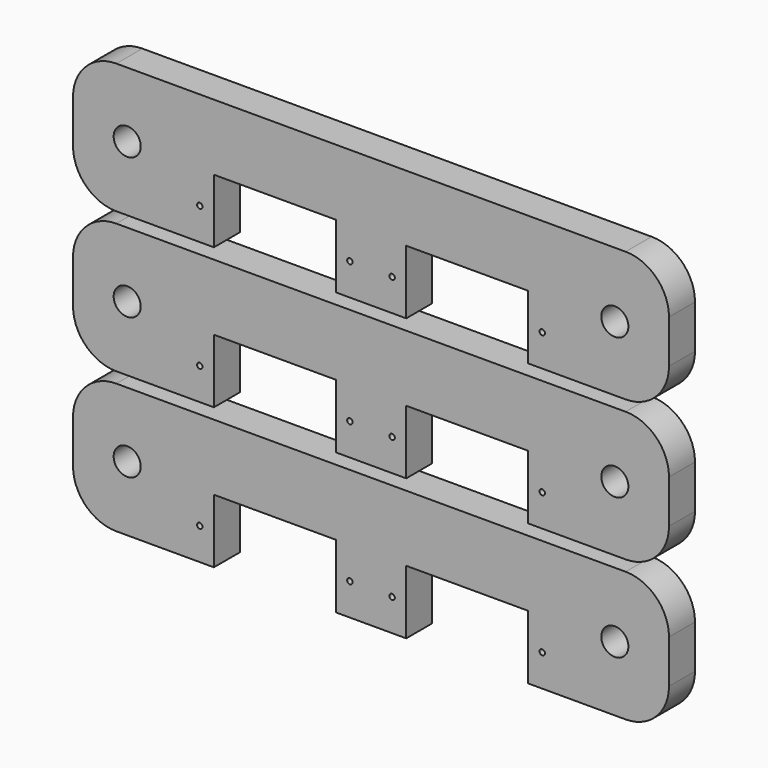
from build123d import *

# Parameters (mm, degrees)
F0_R     = 0.5
F0_R_2   = 2.5
F1_DEPTH = 6


with BuildPart() as f1:
    # F0 (on Front) → F1 (new body)
    with BuildSketch(Plane.XZ):
        with BuildLine():
            Line((47, 12), (-47, 12))
            ThreePointArc((-47, 12), (-52.656854, 9.656854), (-55, 4))
            Line((-55, 4), (-55, -4))
            ThreePointArc((-55, -4), (-52.656854, -9.656854), (-47, -12))
            Line((-47, -12), (-29, -12))
            Line((-29, -12), (-29, -0.2))
            Line((-29, -0.2), (-6.5, -0.2))
            Line((-6.5, -0.2), (-6.5, -12))
            Line((-6.5, -12), (6.5, -12))
            Line((6.5, -12), (6.5, -0.2))
            Line((6.5, -0.2), (29, -0.2))
            Line((29, -0.2), (29, -12))
            Line((29, -12), (47, -12))
            ThreePointArc((47, -12), (52.656854, -9.656854), (55, -4))
            Line((55, -4), (55, 4))
            ThreePointArc((55, 4), (52.656854, 9.656854), (47, 12))
        make_face()
        with Locations((-31.6, -6.1)):
            Circle(F0_R, mode=Mode.SUBTRACT)
        with Locations((-45, 0)):
            Circle(F0_R_2, mode=Mode.SUBTRACT)
        with Locations((-3.9, -6.1)):
            Circle(F0_R, mode=Mode.SUBTRACT)
        with Locations((3.9, -6.1)):
            Circle(F0_R, mode=Mode.SUBTRACT)
        with Locations((31.6, -6.1)):
            Circle(F0_R, mode=Mode.SUBTRACT)
        with Locations((45, 0)):
            Circle(F0_R_2, mode=Mode.SUBTRACT)
        with BuildLine():
            Line((-47, 14), (-29, 14))
            Line((-29, 14), (-29, 25.8))
            Line((-29, 25.8), (-6.5, 25.8))
            Line((-6.5, 25.8), (-6.5, 14))
            Line((-6.5, 14), (6.5, 14))
            Line((6.5, 14), (6.5, 25.8))
            Line((6.5, 25.8), (29, 25.8))
            Line((29, 25.8), (29, 14))
            Line((29, 14), (47, 14))
            ThreePointArc((47, 14), (52.656854, 16.343146), (55, 22))
            Line((55, 22), (55, 30))
            ThreePointArc((55, 30), (52.656854, 35.656854), (47, 38))
            Line((47, 38), (-47, 38))
            ThreePointArc((-47, 38), (-52.656854, 35.656854), (-55, 30))
            Line((-55, 30), (-55, 22))
            ThreePointArc((-55, 22), (-52.656854, 16.343146), (-47, 14))
        make_face()
        with Locations((-31.6, 19.9)):
            Circle(F0_R, mode=Mode.SUBTRACT)
        with Locations((-3.9, 19.9)):
            Circle(F0_R, mode=Mode.SUBTRACT)
        with Locations((3.9, 19.9)):
            Circle(F0_R, mode=Mode.SUBTRACT)
        with Locations((31.6, 19.9)):
            Circle(F0_R, mode=Mode.SUBTRACT)
        with Locations((-45, 26)):
            Circle(F0_R_2, mode=Mode.SUBTRACT)
        with Locations((45, 26)):
            Circle(F0_R_2, mode=Mode.SUBTRACT)
        with BuildLine():
            Line((-47, 40), (-29, 40))
            Line((-29, 40), (-29, 51.8))
            Line((-29, 51.8), (-6.5, 51.8))
            Line((-6.5, 51.8), (-6.5, 40))
            Line((-6.5, 40), (6.5, 40))
            Line((6.5, 40), (6.5, 51.8))
            Line((6.5, 51.8), (29, 51.8))
            Line((29, 51.8), (29, 40))
            Line((29, 40), (47, 40))
            ThreePointArc((47, 40), (52.656854, 42.343146), (55, 48))
            Line((55, 48), (55, 56))
            ThreePointArc((55, 56), (52.656854, 61.656854), (47, 64))
            Line((47, 64), (-47, 64))
            ThreePointArc((-47, 64), (-52.656854, 61.656854), (-55, 56))
            Line((-55, 56), (-55, 48))
            ThreePointArc((-55, 48), (-52.656854, 42.343146), (-47, 40))
        make_face()
        with Locations((-45, 52)):
            Circle(F0_R_2, mode=Mode.SUBTRACT)
        with Locations((-31.6, 45.9)):
            Circle(F0_R, mode=Mode.SUBTRACT)
        with Locations((-3.9, 45.9)):
            Circle(F0_R, mode=Mode.SUBTRACT)
        with Locations((3.9, 45.9)):
            Circle(F0_R, mode=Mode.SUBTRACT)
        with Locations((31.6, 45.9)):
            Circle(F0_R, mode=Mode.SUBTRACT)
        with Locations((45, 52)):
            Circle(F0_R_2, mode=Mode.SUBTRACT)
    extrude(amount=F1_DEPTH)


solid = f1.part
